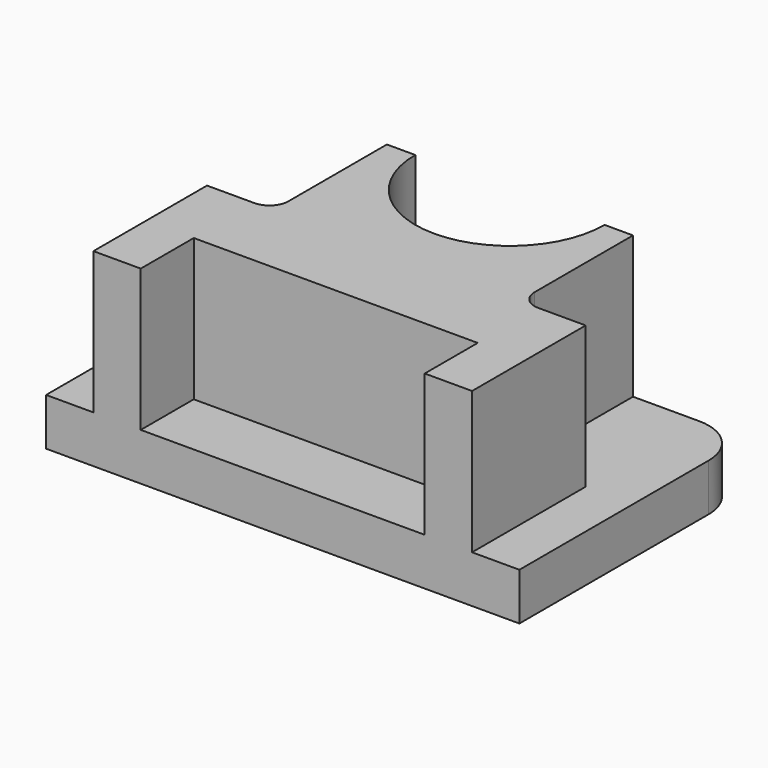
from build123d import *

# Parameters (mm, degrees)
F1_DEPTH = 6.35
F3_DEPTH = 19.05


with BuildPart() as f1:
    # F0 (on Top) → F1 (new body)
    with BuildSketch(Plane.XY):
        with BuildLine():
            Line((-11.39312, 24.096514), (-24.09312, 24.096514))
            ThreePointArc((-24.09312, 24.096514), (-28.583248, 22.236642), (-30.44312, 17.746514))
            Line((-30.44312, 17.746514), (-30.44312, -14.003486))
            Line((-30.44312, -14.003486), (33.05688, -14.003486))
            Line((33.05688, -14.003486), (33.05688, 17.746514))
            ThreePointArc((33.05688, 17.746514), (31.197008, 22.236642), (26.70688, 24.096514))
            Line((26.70688, 24.096514), (14.00688, 24.096514))
            ThreePointArc((14.00688, 24.096514), (1.30688, 11.396514), (-11.39312, 24.096514))
        make_face()
    extrude(amount=F1_DEPTH)

    # F2 (on face) → F3 (join)
    with BuildSketch(Plane.XY.offset(6.35)):
        with BuildLine():
            Line((-24.09312, 5.046514), (-24.09312, -14.003486))
            Line((-24.09312, -14.003486), (-17.74312, -14.003486))
            Line((-17.74312, -14.003486), (-17.74312, -5.113486))
            Line((-17.74312, -5.113486), (20.35688, -5.113486))
            Line((20.35688, -5.113486), (20.35688, -14.003486))
            Line((20.35688, -14.003486), (26.70688, -14.003486))
            Line((26.70688, -14.003486), (26.70688, 5.046514))
            Line((26.70688, 5.046514), (20.35688, 5.046514))
            ThreePointArc((20.35688, 5.046514), (18.560829, 5.790463), (17.81688, 7.586514))
            Line((17.81688, 7.586514), (17.81688, 24.096514))
            Line((17.81688, 24.096514), (14.00688, 24.096514))
            ThreePointArc((14.00688, 24.096514), (1.30688, 11.396514), (-11.39312, 24.096514))
            Line((-11.39312, 24.096514), (-15.20312, 24.096514))
            Line((-15.20312, 24.096514), (-15.20312, 7.620516))
            ThreePointArc((-15.20312, 7.620516), (-15.202892, 7.586514), (-15.20312, 7.552512))
            ThreePointArc((-15.20312, 7.552512), (-15.958984, 5.778401), (-17.74312, 5.046514))
            Line((-17.74312, 5.046514), (-24.09312, 5.046514))
        make_face()
    extrude(amount=F3_DEPTH)


solid = f1.part
